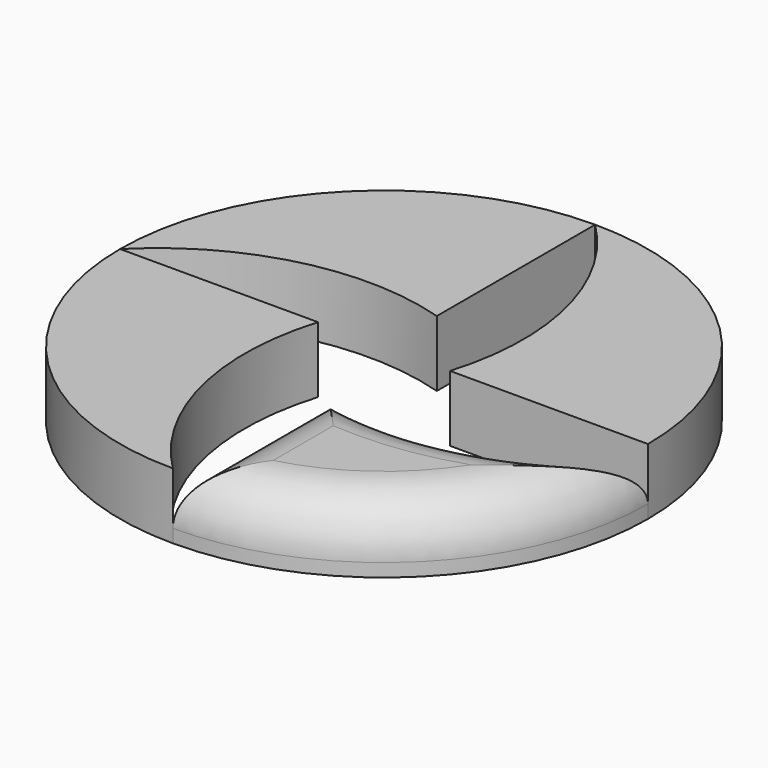
from build123d import *

# Parameters (mm, degrees)
F1_DEPTH = 3.175
F2_R     = 5.08


with BuildPart() as f1:
    # F0 (on Top) → F1 (new body, symmetric)
    with BuildSketch(Plane.XY):
        with BuildLine():
            Line((6.35, 0), (25.4, 0))
            ThreePointArc((25.4, 0), (17.9605122421, 17.9605122421), (0, 25.4))
            ThreePointArc((0, 25.4), (6.6998154897, 13.5812038724), (6.35, 0))
        make_face()
    extrude(amount=F1_DEPTH, both=True)


with BuildPart() as f1b:
    # F0 (on Top) → F1, piece 2 (new body, symmetric)
    with BuildSketch(Plane.XY):
        with BuildLine():
            Line((0, 6.35), (0, 25.4))
            ThreePointArc((0, 25.4), (-17.9605122421, 17.9605122421), (-25.4, 0))
            ThreePointArc((-25.4, 0), (-13.5812038724, 6.6998154897), (0, 6.35))
        make_face()
    extrude(amount=F1_DEPTH, both=True)


with BuildPart() as f1c:
    # F0 (on Top) → F1, piece 3 (new body, symmetric)
    with BuildSketch(Plane.XY):
        with BuildLine():
            ThreePointArc((-25.4, 0), (-17.9605122421, -17.9605122421), (0, -25.4))
            ThreePointArc((0, -25.4), (-6.6998154897, -13.5812038724), (-6.35, 0))
            Line((-6.35, 0), (-25.4, 0))
        make_face()
    extrude(amount=F1_DEPTH, both=True)


with BuildPart() as f1d:
    # F0 (on Top) → F1, piece 4 (new body, symmetric)
    with BuildSketch(Plane.XY):
        with BuildLine():
            ThreePointArc((0, -25.4), (17.9605122421, -17.9605122421), (25.4, 0))
            ThreePointArc((25.4, 0), (13.5812038724, -6.6998154897), (0, -6.35))
            Line((0, -6.35), (0, -25.4))
        make_face()
    extrude(amount=F1_DEPTH, both=True)

    # F2
    f2_edges = [f1d.edges().sort_by_distance(p)[0] for p in [
        (0, -15.875, 3.175),
        (17.960512, -17.960512, 3.175),
        (13.581204, -6.699815, 3.175),
    ]]
    fillet(f2_edges, radius=F2_R)


solid = Compound([f1.part, f1b.part, f1c.part, f1d.part])
